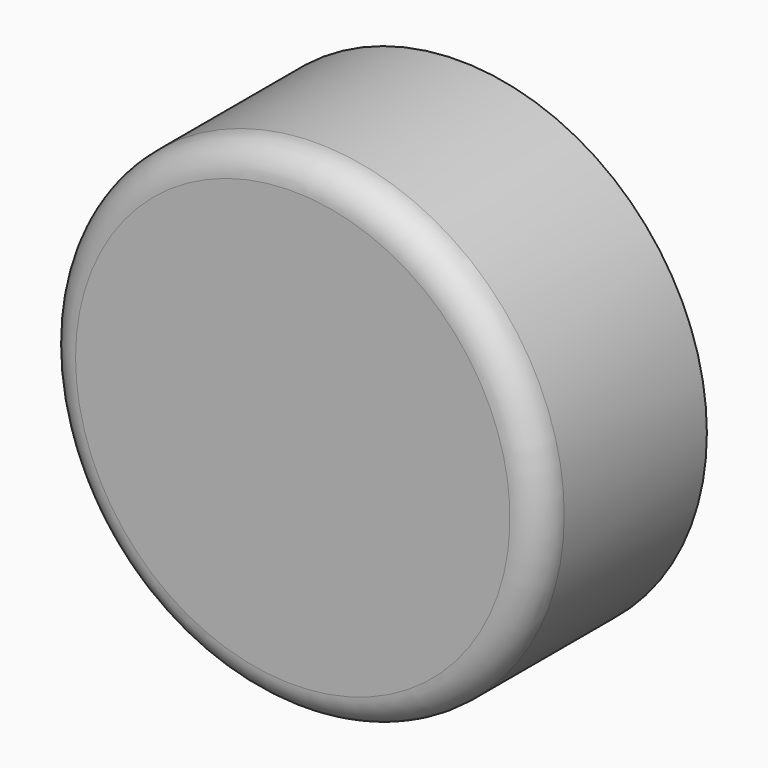
from build123d import *

# Parameters (mm, degrees)
F2_R = 5


with BuildPart() as f1:
    # F0 (on Top) → F1 (revolve)
    with BuildSketch(Plane.XY):
        with BuildLine():
            ThreePointArc((-28.7132141766, -12.8533274233), (-26.6629616449, -17.8030748916), (-21.7132141766, -19.8533274233))
            Line((-21.7132141766, -19.8533274233), (28.7132141766, -19.8533274233))
            Line((28.7132141766, -19.8533274233), (28.7132141766, 28.5404919536))
            Line((28.7132141766, 28.5404919536), (8.7132141766, 28.5404919536))
            Line((8.7132141766, 28.5404919536), (0, 7.5049321167))
            Line((0, 7.5049321167), (-8.7132141766, 28.5404919536))
            Line((-8.7132141766, 28.5404919536), (-28.7132141766, 28.5404919536))
            Line((-28.7132141766, 28.5404919536), (-28.7132141766, -12.8533274233))
        make_face()
    revolve(axis=Axis((28.7132141766, 4.3435822652, 0), (0, 1, 0)))

    # F2
    f2_edges = [f1.edges().sort_by_distance(p)[0] for p in [
        (48.713214, 28.540492, 0),
    ]]
    fillet(f2_edges, radius=F2_R)


solid = f1.part
